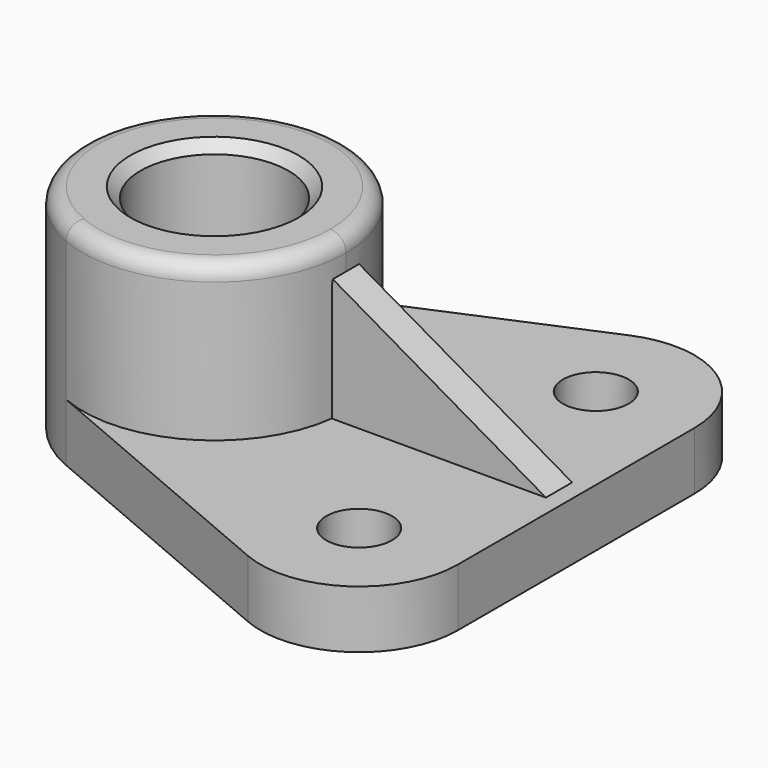
from build123d import *

# Parameters (mm, degrees)
F0_R     = 14.2875
F1_DEPTH = 41.148
F0_R_2   = 6.35
F2_DEPTH = 11.176
F6_DEPTH = 3.175
F7_R     = 3.048


with BuildPart() as f1:
    # F0 (on Top) → F1 (new body)
    with BuildSketch(Plane.XY):
        with BuildLine():
            ThreePointArc((-9.966643, -23.36292), (14.00013, -21.193309), (25.4, 0))
            ThreePointArc((25.4, 0), (14.00013, 21.193309), (-9.966643, 23.36292))
            ThreePointArc((-9.966643, 23.36292), (-25.4, 0), (-9.966643, -23.36292))
        make_face()
        Circle(F0_R, mode=Mode.SUBTRACT)
    extrude(amount=F1_DEPTH)

    # F0 (on Top) → F2 (join)
    with BuildSketch(Plane.XY):
        with BuildLine():
            ThreePointArc((-9.966643, 23.36292), (14.00013, 21.193309), (25.4, 0))
            ThreePointArc((25.4, 0), (14.00013, -21.193309), (-9.966643, -23.36292))
            Line((-9.966643, -23.36292), (43.325018, -46.09719))
            ThreePointArc((43.325018, -46.09719), (61.300097, -44.469982), (69.85, -28.575))
            Line((69.85, -28.575), (69.85, 28.575))
            ThreePointArc((69.85, 28.575), (61.300097, 44.469982), (43.325018, 46.09719))
            Line((43.325018, 46.09719), (-9.966643, 23.36292))
        make_face()
        with Locations((50.8, -28.575)):
            Circle(F0_R_2, mode=Mode.SUBTRACT)
        with Locations((50.8, 28.575)):
            Circle(F0_R_2, mode=Mode.SUBTRACT)
    extrude(amount=F2_DEPTH)

    # F3 (on Front) → F4 (revolve, cut)
    with BuildSketch(Plane.XZ):
        Polygon((0, 41.148), (0, 0), (14.2875, 0), (16.256, 0), (14.224, 2.032), (14.224, 39.116), (16.256, 41.148), align=None)
    revolve(axis=Axis((0, 0, 20.574), (0, 0, -1)), mode=Mode.SUBTRACT)

    # F5 (on Front) → F6 (join, symmetric)
    with BuildSketch(Plane.XZ):
        Polygon((66.548, 11.176), (25.4, 34.932809), (21.651473, 8.582563), align=None)
    extrude(amount=F6_DEPTH, both=True)

    # F7
    f7_edges = [f1.edges().sort_by_distance(p)[0] for p in [
        (9.966643, -23.36292, 41.148),
    ]]
    fillet(f7_edges, radius=F7_R)


solid = f1.part
